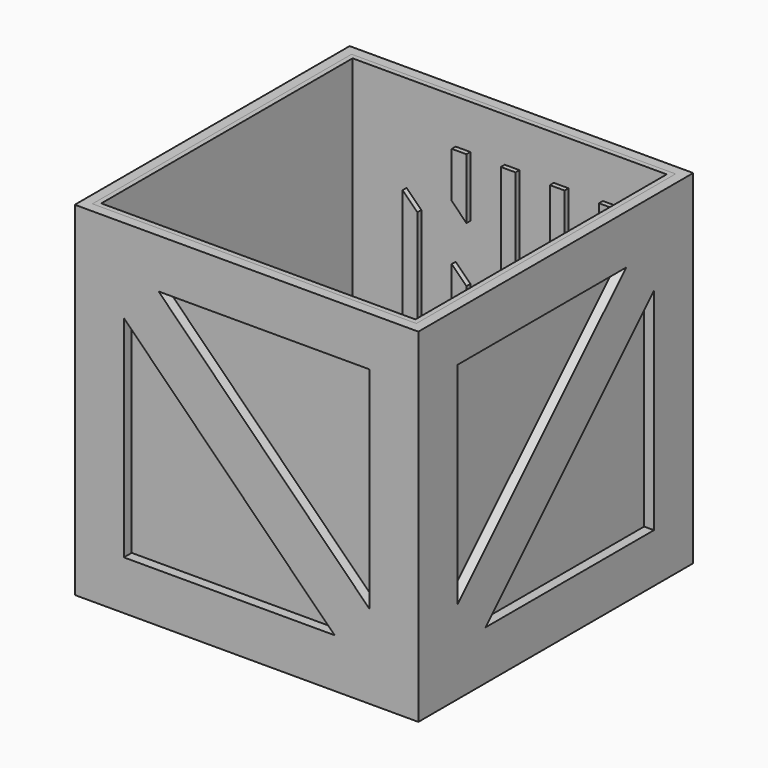
from build123d import *

# Parameters (mm, degrees)
F0_W      = 66
F0_H      = 66
F0_W_2    = 50
F0_H_2    = 50
F1_DEPTH  = 2
F0_W_3    = 70
F0_H_3    = 70
F2_DEPTH  = 70
F4_DEPTH  = 70.001
F6_DEPTH  = 70.001
F7_W      = 66
F7_H      = 66
F8_DEPTH  = 68
F10_DEPTH = 1
F11_DEPTH = 1
F12_T     = -1


with BuildPart() as f1:
    # F0 (on Top) → F1 (new body)
    with BuildSketch(Plane.XY):
        Rectangle(F0_W, F0_H)
        Rectangle(F0_W_2, F0_H_2, mode=Mode.SUBTRACT)
    extrude(amount=F1_DEPTH)

    # F0 (on Top) → F2 (join)
    with BuildSketch(Plane.XY):
        Rectangle(F0_W_3, F0_H_3)
        Rectangle(F0_W, F0_H, mode=Mode.SUBTRACT)
    extrude(amount=F2_DEPTH)

    # F3 (on face) → F4 (cut, through all)
    with BuildSketch(Plane.XZ.offset(35)):
        Polygon((-17.9289321881, 60), (25, 17.0710678119), (25, 60), align=None)
        Polygon((-25, 10), (17.9289321881, 10), (-25, 52.9289321881), align=None)
    extrude(amount=-F4_DEPTH, mode=Mode.SUBTRACT)

    # F5 (on face) → F6 (cut, through all)
    with BuildSketch(Plane(origin=(-35, 0, 0), x_dir=(0, -1, 0), z_dir=(-1, 0, 0))):
        Polygon((-17.9289321881, 60), (25, 17.0710678119), (25, 60), align=None)
        Polygon((-25, 10), (17.9289321881, 10), (-25, 52.9289321881), align=None)
    extrude(amount=-F6_DEPTH, mode=Mode.SUBTRACT)


with BuildPart() as f8:
    # F7 (on face) → F8 (new body, through all)
    with BuildSketch(Plane.XY.offset(70)):
        Rectangle(F7_W, F7_H)
    extrude(amount=-F8_DEPTH)

    # F9 (on face) → F10 (cut)
    with BuildSketch(Plane(origin=(0, 33, 0), x_dir=(-1, 0, 0), z_dir=(0, 1, 0))):
        Polygon((-11, 60), (-11, 31.0710678119), (-10, 32.0710678119), (-10, 60), align=None)
    extrude(amount=-F10_DEPTH, mode=Mode.SUBTRACT)

    # F9 (on face) → F11 (cut)
    with BuildSketch(Plane(origin=(0, 33, 0), x_dir=(-1, 0, 0), z_dir=(0, 1, 0))):
        Polygon((-21, 60), (-21, 21.0710678119), (-20, 22.0710678119), (-20, 60), align=None)
        Polygon((-1, 60), (-1, 41.0710678119), (0, 42.0710678119), (0, 60), align=None)
        Polygon((9, 60), (9, 51.0710678119), (10, 52.0710678119), (10, 60), align=None)
        Polygon((20, 47.9289321881), (19, 46.9289321881), (19, 10), (20, 10), align=None)
        Polygon((10, 37.9289321881), (9, 36.9289321881), (9, 10), (10, 10), align=None)
        Polygon((0, 27.9289321881), (-1, 26.9289321881), (-1, 10), (0, 10), align=None)
        Polygon((-10, 17.9289321881), (-11, 16.9289321881), (-11, 10), (-10, 10), align=None)
    extrude(amount=-F11_DEPTH, mode=Mode.SUBTRACT)

    # F12
    f12_openings = [f8.faces().sort_by_distance(p)[0] for p in [
        (0, 0, 70),
    ]]
    offset(amount=F12_T, openings=f12_openings, kind=Kind.INTERSECTION)


solid = Compound([f1.part, f8.part])
